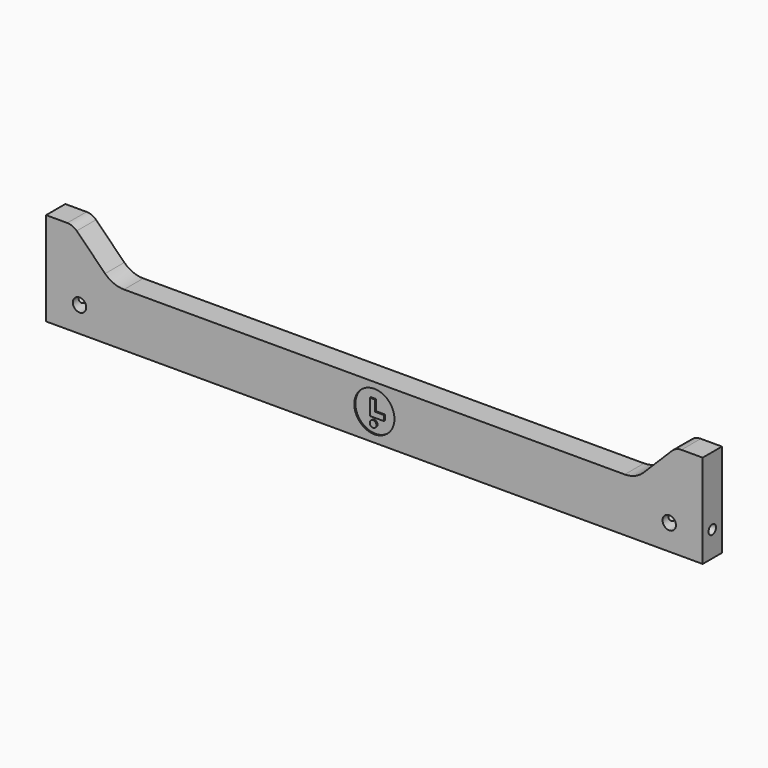
from build123d import *

# Parameters (mm, degrees)
F0_R     = 5
F1_DEPTH = 18
F4_D     = 7
F4_DEPTH = 35
F4_TIP   = 2.1030121666
F5_D     = 7
F5_DEPTH = 35
F5_TIP   = 2.1030121666
F6_R     = 15
F6_R_2   = 2.5
F7_DEPTH = 1


with BuildPart() as f1:
    # F0 (on Front) → F1 (new body)
    with BuildSketch(Plane.XZ):
        with BuildLine():
            Line((0, 70), (0, 0))
            Line((0, 0), (491, 0))
            Line((491, 0), (491, 70))
            Line((491, 70), (475.1421356237, 70))
            ThreePointArc((475.1421356237, 70), (471.3153013001, 69.2387953251), (468.0710678119, 67.0710678119))
            Line((468.0710678119, 67.0710678119), (446.8578643763, 45.8578643763))
            ThreePointArc((446.8578643763, 45.8578643763), (440.3693973998, 41.5224093498), (432.7157287525, 40))
            Line((432.7157287525, 40), (58.2842712475, 40))
            ThreePointArc((58.2842712475, 40), (50.6306026002, 41.5224093498), (44.1421356237, 45.8578643763))
            Line((44.1421356237, 45.8578643763), (22.9289321881, 67.0710678119))
            ThreePointArc((22.9289321881, 67.0710678119), (19.6846986999, 69.2387953251), (15.8578643763, 70))
            Line((15.8578643763, 70), (0, 70))
        make_face()
        with Locations((25, 19)):
            Circle(F0_R, mode=Mode.SUBTRACT)
        with Locations((466, 19)):
            Circle(F0_R, mode=Mode.SUBTRACT)
    extrude(amount=F1_DEPTH)

    # F4
    with Locations(Plane(origin=(0, 0, 0), x_dir=(0, -1, 0), z_dir=(-1, 0, 0))):
        with Locations((9, 19)):
            Hole(F4_D / 2, depth=F4_DEPTH)
            with Locations((0, 0, -(F4_DEPTH + F4_TIP / 2))):  # 118° drill point
                Cone(0, F4_D / 2, F4_TIP, mode=Mode.SUBTRACT)

    # F5
    with Locations(Plane.YZ.offset(491)):
        with Locations((-9, 19)):
            Hole(F5_D / 2, depth=F5_DEPTH)
            with Locations((0, 0, -(F5_DEPTH + F5_TIP / 2))):  # 118° drill point
                Cone(0, F5_D / 2, F5_TIP, mode=Mode.SUBTRACT)

    # F6 (on face) → F7 (cut)
    with BuildSketch(Plane.XZ.offset(18)):
        with Locations((245.5, 20.5260608345)):
            Circle(F6_R)
        with Locations((244.5451939106, 12.0426760986)):
            Circle(F6_R_2, mode=Mode.SUBTRACT)
        Polygon((242.0451939106, 16.5260608345), (242.0451939106, 28.5260608345), (246.0451939106, 28.5260608345), (246.0451939106, 20.5260608345), (252.542167902, 20.5260608345), (252.542167902, 16.5260608345), align=None, mode=Mode.SUBTRACT)
    extrude(amount=-F7_DEPTH, mode=Mode.SUBTRACT)


solid = f1.part
